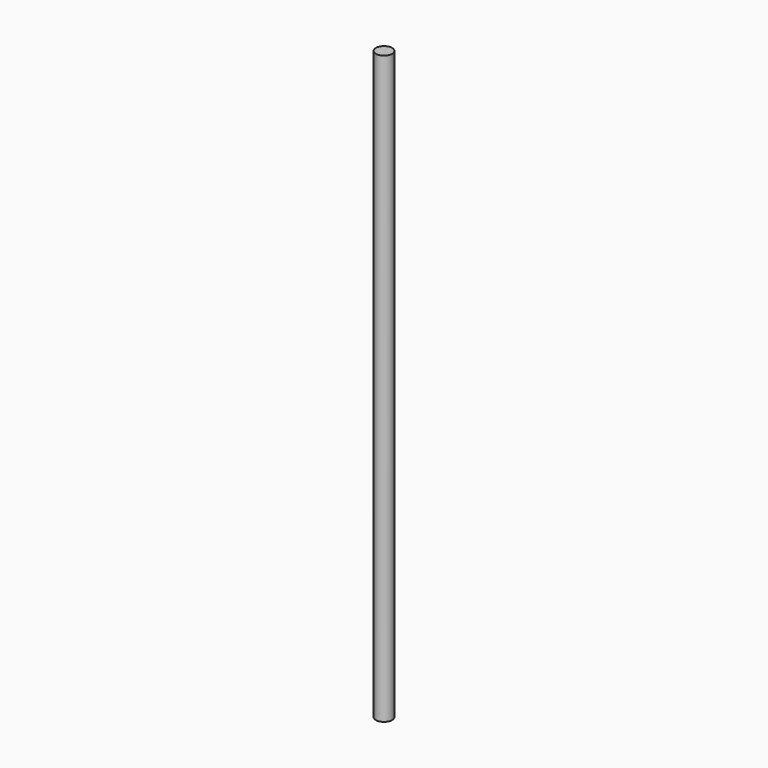
from build123d import *

# Parameters (mm, degrees)
F2_R = 6.35


with BuildPart() as f3:
    # F3: sweep along a path in F0
    with BuildLine(Plane.XZ) as f3_path:
        Line((0, 230.1875), (0, -230.1875))
    # F2 (on face) → F3 (sweep)
    with BuildSketch(Plane.XY.offset(230.1875)):
        Circle(F2_R)
    sweep(path=f3_path.line)


solid = f3.part
